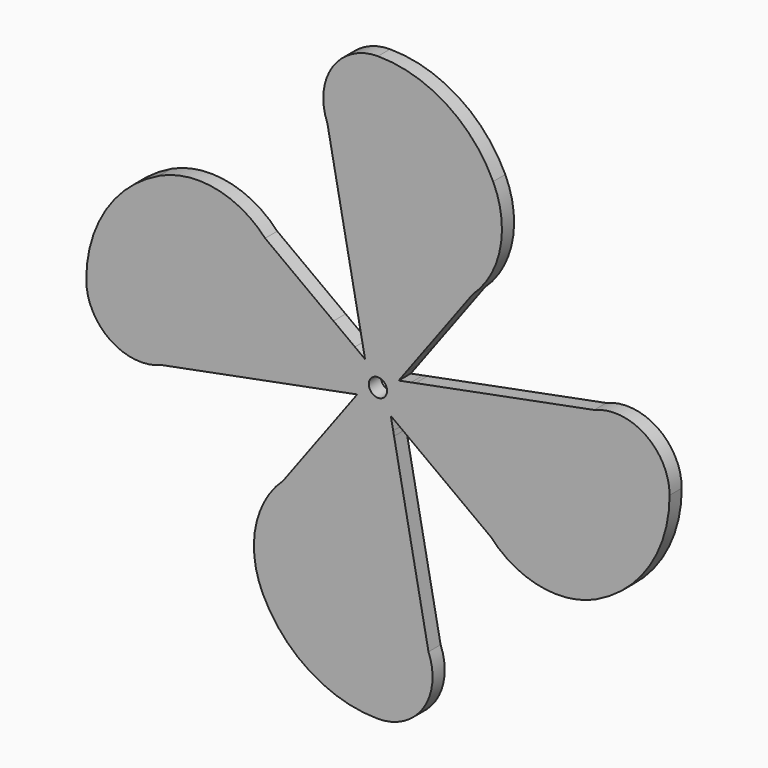
from build123d import *

# Parameters (mm, degrees)
F1_DEPTH = 2.5
F2_COUNT = 4


with BuildPart() as f1:
    # F0 (on Front) → F1 (new body, symmetric)
    with BuildSketch(Plane.XZ):
        with BuildLine():
            ThreePointArc((18, 24), (17.0470416958, 29.7791322377), (14.2890700643, 34.946345358))
            ThreePointArc((14.2890700643, 34.946345358), (-4.1125794445, 31.1526624853), (-16.6488897576, 17.157889957))
            ThreePointArc((-16.6488897576, 17.157889957), (3.4871180339, 6.3410077349), (18, 24))
        make_face()
        with BuildLine():
            ThreePointArc((14.2890700643, 34.946345358), (7.967615209, 40.1405423664), (4.77e-08, 42))
            ThreePointArc((4.77e-08, 42), (-14.9525579748, 34.0210283908), (-16.6488897576, 17.157889957))
            ThreePointArc((-16.6488897576, 17.157889957), (-4.1125794445, 31.1526624853), (14.2890700643, 34.946345358))
        make_face()
        with BuildLine():
            ThreePointArc((40.8410037042, 5.1451568183), (40.1076678925, 11.7377562518), (37.9435125515, 18.0080497349))
            ThreePointArc((37.9435125515, 18.0080497349), (28.3069956895, 29.5365307848), (14.2890700643, 34.946345358))
            ThreePointArc((14.2890700643, 34.946345358), (17.0470416958, 29.7791322377), (18, 24))
            ThreePointArc((18, 24), (3.4871180339, 6.3410077349), (-16.6488897576, 17.157889957))
            Line((-16.6488897576, 17.157889957), (-10.2130597935, -16.2260015554))
            ThreePointArc((-10.2130597935, -16.2260015554), (10.3536707871, -24.8508846976), (31.1897226642, -16.8986549366))
            ThreePointArc((31.1897226642, -16.8986549366), (38.3224662635, -6.8868511438), (40.8410037042, 5.1451568183))
        make_face()
        with BuildLine():
            ThreePointArc((-5.3092368295, -41.6630772302), (4.7480675162, -41.730754305), (14.5331010068, -39.4054434707))
            Line((14.5331010068, -39.4054434707), (31.1897226642, -16.8986549366))
            ThreePointArc((31.1897226642, -16.8986549366), (10.3536707871, -24.8508846976), (-10.2130597935, -16.2260015554))
            Line((-10.2130597935, -16.2260015554), (-5.3092368295, -41.6630772302))
        make_face()
        with BuildLine():
            Line((9.3043480393, -46.4706479136), (14.5331010068, -39.4054434707))
            ThreePointArc((14.5331010068, -39.4054434707), (4.7480675162, -41.730754305), (-5.3092368295, -41.6630772302))
            Line((-5.3092368295, -41.6630772302), (-5.0224929571, -43.1504730102))
            ThreePointArc((-5.0224929571, -43.1504730102), (2.7091439762, -42.3586575491), (9.3043480393, -46.4706479136))
        make_face()
        with BuildLine():
            Line((2.6361842657, -55.4808154644), (9.3043480393, -46.4706479136))
            ThreePointArc((9.3043480393, -46.4706479136), (2.7091439762, -42.3586575491), (-5.0224929571, -43.1504730102))
            Line((-5.0224929571, -43.1504730102), (-2.982985598, -53.729791108))
            ThreePointArc((-2.982985598, -53.729791108), (0.1597548214, -51.0531040274), (3, -54.0488474071))
            ThreePointArc((3, -54.0488474071), (2.9076238406, -54.7875784822), (2.6361842657, -55.4808154644))
        make_face()
        with BuildLine():
            ThreePointArc((14.2890700643, 34.946345358), (28.3069956895, 29.5365307848), (37.9435125515, 18.0080497349))
            ThreePointArc((37.9435125515, 18.0080497349), (22.4461791063, 35.4988597497), (4.77e-08, 42))
            ThreePointArc((4.77e-08, 42), (7.967615209, 40.1405423664), (14.2890700643, 34.946345358))
        make_face()
    extrude(amount=F1_DEPTH, both=True)

    # F2: F1 ×4 about axis
    f2_axis = Axis((0, 0, -54.0488474071), (0, -1, 0))


with BuildPart() as f1_1:
    add(f1.part)
    for i in range(1, F2_COUNT):
        add(f1.part.rotate(f2_axis, i * 360 / F2_COUNT))


solid = f1_1.part
